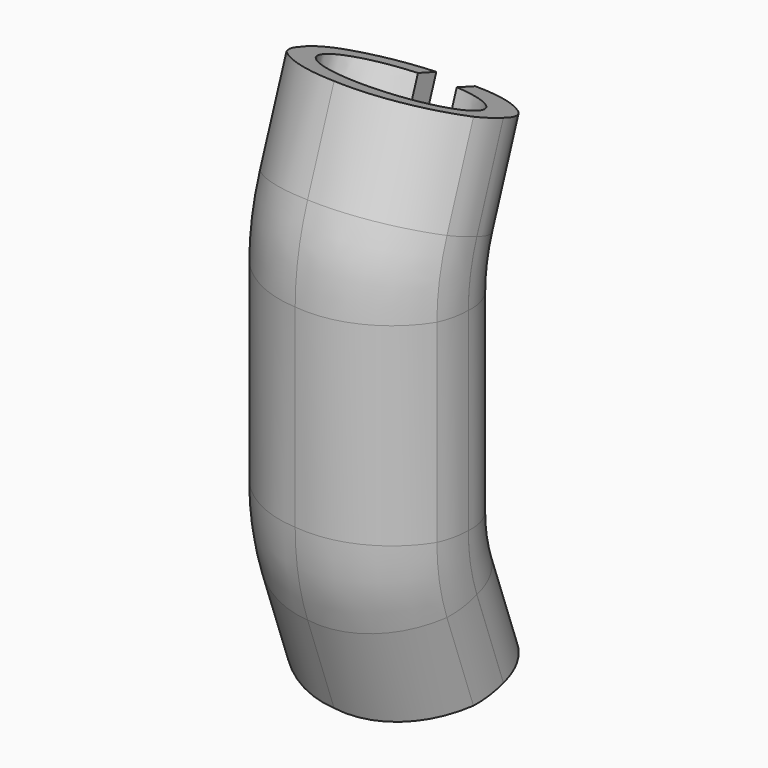
from build123d import *

# Parameters (mm, degrees)
F1_ANGLE = 20
F2_DEPTH = 40
F3_DEPTH = 20


with BuildPart() as f1:
    # F0 (on Top) → F1 (revolve)
    with BuildSketch(Plane.XY):
        with BuildLine():
            Line((20, 1.4849976709), (20, 1.4977182727))
            ThreePointArc((20, 1.4977182727), (19.2969219024, 6.1323884173), (16.4989456534, 9.8934806883))
            ThreePointArc((16.4989456534, 9.8934806883), (10.7522349915, 13.6741097893), (4.0024309217, 15))
            Line((4.0024309217, 15), (4.0024309217, 10))
            Line((4.0024309217, 10), (4.0024309217, 9.9667196315))
            add(Edge.make_bspline(
                [(-4.0015676197, 9.9668666712), (-25.9503586902, 6.2289250722), (-12.9755693968, -5.8918049089), (-0.0007801033, -18.0125348901), (12.9750590408, -5.8922816423), (25.9508981849, 6.2279716054), (4.0024309217, 9.9667196315)],
                knots=[1.8265548118, 1.8265548118, 1.8265548118, 3.750425453, 3.750425453, 5.6742960943, 5.6742960943, 7.5981667356, 7.5981667356, 7.5981667356], degree=2, weights=[1, 0.5719335147, 1, 0.5719335147, 1, 0.5719335147, 1]))
            Line((-4.0015676197, 9.9668666712), (-3.9975690783, 10))
            Line((-3.9975690783, 10), (-3.9975690783, 15))
            ThreePointArc((-3.9975690783, 15), (-10.9924649402, 12.8631747927), (-16.8854892254, 8.5311019793))
            ThreePointArc((-16.8854892254, 8.5311019793), (-19.4850083936, 4.2337723837), (-20, -0.7621584809))
            ThreePointArc((-20, -0.7621584809), (-19.5508542915, -4.205072639), (-18.1086268276, -7.3634535074))
            ThreePointArc((-18.1086268276, -7.3634535074), (-11.096805602, -12.7644695157), (-2.5329855271, -15))
            ThreePointArc((-2.5329855271, -15), (9.5255077055, -13.0464820276), (18.6243609734, -4.8957544086))
            ThreePointArc((18.6243609734, -4.8957544086), (19.6515229493, -1.778537885), (20, 1.4849976709))
        make_face()
    revolve(axis=Axis((1.3774326071, 38.100373, 0), (1, 0, 0)), revolution_arc=F1_ANGLE)

    # F2 (add): a face of the model
    f2_faces = [f1.faces().sort_by_distance(p)[0] for p in [
        (9.3091754971, -12.5935025892, 0),
    ]]
    extrude(f2_faces, amount=F2_DEPTH)

    # F3 (add): a face of the model
    f3_faces = [f1.faces().sort_by_distance(p)[0] for p in [
        (9.3091754969, -9.53628781, -17.3383265947),
    ]]
    extrude(f3_faces, amount=F3_DEPTH)

    # F5: F1 across plane


with BuildPart() as f1_1:
    add(f1.part)
    add(f1.part.mirror(Plane.XY.offset(20)))


solid = f1_1.part
